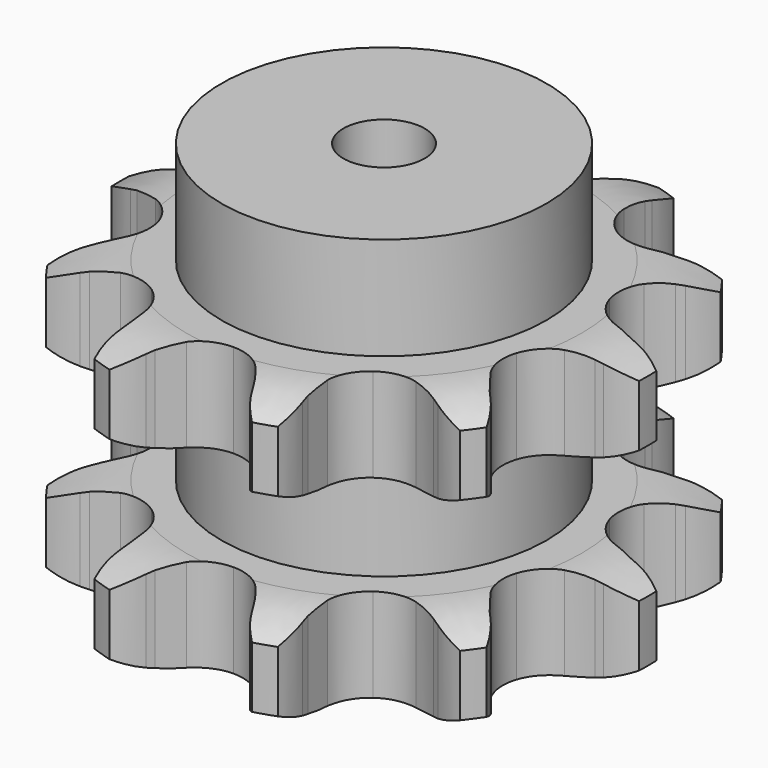
from build123d import *

# Parameters (mm, degrees)
PAD_DEPTH         = 88.4
SKETCH001_R       = 50
PAD001_DEPTH      = 120
SKETCH002_R       = 12.5
POCKET_DEPTH      = 0.001
POCKET_DEPTH_BACK = -120.001


with BuildPart() as part:
    # Sprocket → Pad (new body)
    with BuildSketch(Plane.XY):
        with BuildLine():
            ThreePointArc((-26.340063, 81.066377), (-20.560993, 76.918409), (-16.262398, 71.250485))
            Line((-16.262398, 71.250485), (-15.115607, 69.147122))
            ThreePointArc((-15.115607, 69.147122), (-13.045156, 65.794775), (-10.624764, 62.685645))
            ThreePointArc((-10.624764, 62.685645), (-5.838031, 59.111222), (0, 57.843661))
            ThreePointArc((0, 57.843661), (5.838031, 59.111222), (10.624764, 62.685645))
            ThreePointArc((10.624764, 62.685645), (13.045156, 65.794775), (15.115607, 69.147122))
            Line((15.115607, 69.147122), (16.262398, 71.250485))
            ThreePointArc((16.262398, 71.250485), (20.560993, 76.918409), (26.340063, 81.066377))
            ThreePointArc((26.340063, 81.066377), (28.577314, 74.313749), (28.723428, 67.201651))
            Line((28.723428, 67.201651), (28.414875, 64.825928))
            ThreePointArc((28.414875, 64.825928), (28.119446, 60.896842), (28.250083, 56.958831))
            ThreePointArc((28.250083, 56.958831), (30.021638, 51.253491), (33.999651, 46.796505))
            ThreePointArc((33.999651, 46.796505), (39.46777, 44.390474), (45.441312, 44.468672))
            Line((45.441312, 44.468672), (52.872442, 47.056466))
            ThreePointArc((52.872442, 47.056466), (53.946042, 47.588055), (55.036541, 48.084056))
            ThreePointArc((55.036541, 48.084056), (61.8457, 50.142852), (68.959179, 50.101776))
            ThreePointArc((68.959179, 50.101776), (66.800058, 43.323762), (62.737881, 37.484071))
            Line((62.737881, 37.484071), (61.091841, 35.743433))
            ThreePointArc((61.091841, 35.743433), (58.543375, 32.738384), (56.334358, 29.47568))
            ThreePointArc((56.334358, 29.47568), (54.414062, 23.818669), (55.012591, 17.874674))
            ThreePointArc((55.012591, 17.874674), (58.022163, 12.714075), (62.900823, 9.266179))
            Line((62.900823, 9.266179), (70.4338, 6.991839))
            ThreePointArc((70.4338, 6.991839), (71.614822, 6.790857), (72.788596, 6.551151))
            ThreePointArc((72.788596, 6.551151), (79.507451, 4.214429), (85.238233, 0))
            ThreePointArc((85.238233, 0), (79.507451, -4.214429), (72.788596, -6.551151))
            Line((72.788596, -6.551151), (70.4338, -6.991839))
            ThreePointArc((70.4338, -6.991839), (66.605725, -7.925023), (62.900823, -9.266179))
            ThreePointArc((62.900823, -9.266179), (58.022163, -12.714075), (55.012591, -17.874674))
            ThreePointArc((55.012591, -17.874674), (54.414062, -23.818669), (56.334358, -29.47568))
            Line((56.334358, -29.47568), (61.091841, -35.743433))
            ThreePointArc((61.091841, -35.743433), (61.929173, -36.600217), (62.737881, -37.484071))
            ThreePointArc((62.737881, -37.484071), (66.800058, -43.323762), (68.959179, -50.101776))
            ThreePointArc((68.959179, -50.101776), (61.8457, -50.142852), (55.036541, -48.084056))
            Line((55.036541, -48.084056), (52.872442, -47.056466))
            ThreePointArc((52.872442, -47.056466), (49.226952, -45.561341), (45.441312, -44.468672))
            ThreePointArc((45.441312, -44.468672), (39.46777, -44.390474), (33.999651, -46.796505))
            ThreePointArc((33.999651, -46.796505), (30.021638, -51.253491), (28.250083, -56.958831))
            Line((28.250083, -56.958831), (28.414875, -64.825928))
            ThreePointArc((28.414875, -64.825928), (28.588686, -66.011253), (28.723428, -67.201651))
            ThreePointArc((28.723428, -67.201651), (28.577314, -74.313749), (26.340063, -81.066377))
            ThreePointArc((26.340063, -81.066377), (20.560993, -76.918409), (16.262398, -71.250485))
            Line((16.262398, -71.250485), (15.115607, -69.147122))
            ThreePointArc((15.115607, -69.147122), (13.045156, -65.794775), (10.624764, -62.685645))
            ThreePointArc((10.624764, -62.685645), (5.838031, -59.111222), (0, -57.843661))
            ThreePointArc((0, -57.843661), (-5.838031, -59.111222), (-10.624764, -62.685645))
            Line((-10.624764, -62.685645), (-15.115607, -69.147122))
            ThreePointArc((-15.115607, -69.147122), (-15.671708, -70.208233), (-16.262398, -71.250485))
            ThreePointArc((-16.262398, -71.250485), (-20.560993, -76.918409), (-26.340063, -81.066377))
            ThreePointArc((-26.340063, -81.066377), (-28.577314, -74.313749), (-28.723428, -67.201651))
            Line((-28.723428, -67.201651), (-28.414875, -64.825928))
            ThreePointArc((-28.414875, -64.825928), (-28.119446, -60.896842), (-28.250083, -56.958831))
            ThreePointArc((-28.250083, -56.958831), (-30.021638, -51.253491), (-33.999651, -46.796505))
            ThreePointArc((-33.999651, -46.796505), (-39.46777, -44.390474), (-45.441312, -44.468672))
            Line((-45.441312, -44.468672), (-52.872442, -47.056466))
            ThreePointArc((-52.872442, -47.056466), (-53.946042, -47.588055), (-55.036541, -48.084056))
            ThreePointArc((-55.036541, -48.084056), (-61.8457, -50.142852), (-68.959179, -50.101776))
            ThreePointArc((-68.959179, -50.101776), (-66.800058, -43.323762), (-62.737881, -37.484071))
            Line((-62.737881, -37.484071), (-61.091841, -35.743433))
            ThreePointArc((-61.091841, -35.743433), (-58.543375, -32.738384), (-56.334358, -29.47568))
            ThreePointArc((-56.334358, -29.47568), (-54.414062, -23.818669), (-55.012591, -17.874674))
            ThreePointArc((-55.012591, -17.874674), (-58.022163, -12.714075), (-62.900823, -9.266179))
            Line((-62.900823, -9.266179), (-70.4338, -6.991839))
            ThreePointArc((-70.4338, -6.991839), (-71.614822, -6.790857), (-72.788596, -6.551151))
            ThreePointArc((-72.788596, -6.551151), (-79.507451, -4.214429), (-85.238233, 0))
            ThreePointArc((-85.238233, 0), (-79.507451, 4.214429), (-72.788596, 6.551151))
            Line((-72.788596, 6.551151), (-70.4338, 6.991839))
            ThreePointArc((-70.4338, 6.991839), (-66.605725, 7.925023), (-62.900823, 9.266179))
            ThreePointArc((-62.900823, 9.266179), (-58.022163, 12.714075), (-55.012591, 17.874674))
            ThreePointArc((-55.012591, 17.874674), (-54.414062, 23.818669), (-56.334358, 29.47568))
            Line((-56.334358, 29.47568), (-61.091841, 35.743433))
            ThreePointArc((-61.091841, 35.743433), (-61.929173, 36.600217), (-62.737881, 37.484071))
            ThreePointArc((-62.737881, 37.484071), (-66.800058, 43.323762), (-68.959179, 50.101776))
            ThreePointArc((-68.959179, 50.101776), (-61.8457, 50.142852), (-55.036541, 48.084056))
            Line((-55.036541, 48.084056), (-52.872442, 47.056466))
            ThreePointArc((-52.872442, 47.056466), (-49.226952, 45.561341), (-45.441312, 44.468672))
            ThreePointArc((-45.441312, 44.468672), (-39.46777, 44.390474), (-33.999651, 46.796505))
            ThreePointArc((-33.999651, 46.796505), (-30.021638, 51.253491), (-28.250083, 56.958831))
            Line((-28.250083, 56.958831), (-28.414875, 64.825928))
            ThreePointArc((-28.414875, 64.825928), (-28.588686, 66.011253), (-28.723428, 67.201651))
            ThreePointArc((-28.723428, 67.201651), (-28.577314, 74.313749), (-26.340063, 81.066377))
        make_face()
    extrude(amount=PAD_DEPTH)

    # Sketch → Groove (revolve, cut)
    with BuildSketch(Plane.XZ):
        with BuildLine():
            ThreePointArc((60.778451, 0), (71.26654, 1.268279), (81.15, 5))
            Line((81.15, 5), (81.15, 23.8))
            ThreePointArc((81.15, 23.8), (71.26654, 27.531721), (60.778451, 28.8))
            Line((50, 28.8), (60.778451, 28.8))
            Line((50, 59.6), (50, 28.8))
            Line((60.778451, 59.6), (50, 59.6))
            ThreePointArc((60.778451, 59.6), (71.26654, 60.868279), (81.15, 64.6))
            Line((81.15, 64.6), (81.15, 83.4))
            ThreePointArc((81.15, 83.4), (71.26654, 87.131721), (60.778451, 88.4))
            Line((60.778451, 88.4), (91.15, 88.4))
            Line((91.15, 88.4), (91.15, 0))
            Line((60.778451, 0), (91.15, 0))
        make_face()
    revolve(axis=Axis((0, 0, 0), (0, 0, 1)), mode=Mode.SUBTRACT)

    # Sketch001 → Pad001 (join)
    with BuildSketch(Plane.XY):
        Circle(SKETCH001_R)
    extrude(amount=PAD001_DEPTH)

    # Sketch002 → Pocket (cut, two sides)
    with BuildSketch(Plane.XY) as pocket_sk:
        Circle(SKETCH002_R)
    extrude(amount=-POCKET_DEPTH, mode=Mode.SUBTRACT)
    extrude(pocket_sk.sketch, amount=-POCKET_DEPTH_BACK, mode=Mode.SUBTRACT)


solid = part.part
